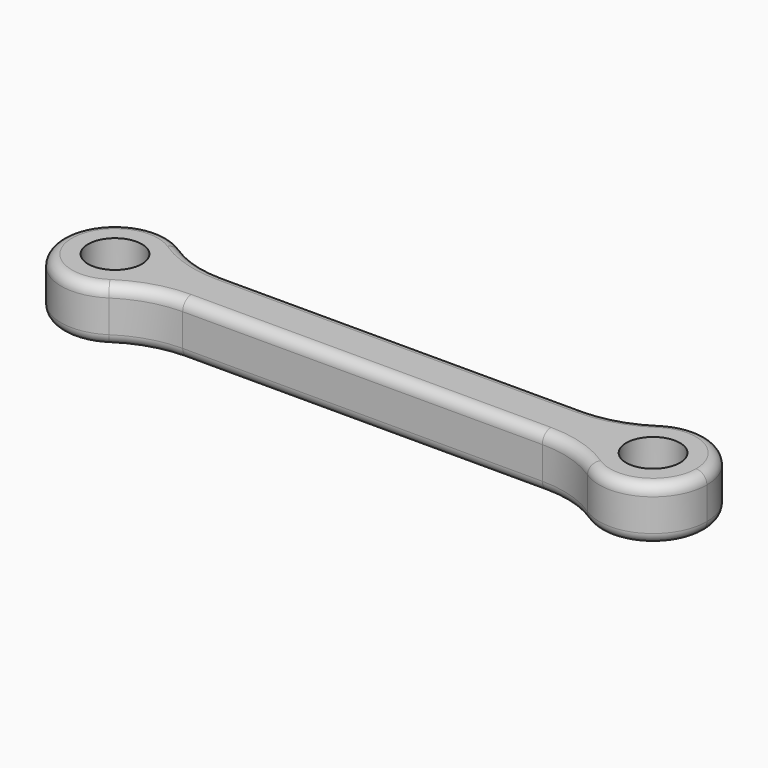
from build123d import *

# Parameters (mm, degrees)
F0_R     = 2.5
F1_DEPTH = 5
F2_R     = 10
F3_R     = 1


with BuildPart() as f1:
    # F0 (on Top) → F1 (new body)
    with BuildSketch(Plane.XY):
        with BuildLine():
            ThreePointArc((-2.3070607836, 0), (-2.4774316521, 1.2940952255), (-2.9769337647, 2.5))
            ThreePointArc((-2.9769337647, 2.5), (-12.3070607836, 0), (-2.9769337647, -2.5))
            ThreePointArc((-2.9769337647, -2.5), (-2.4774316521, -1.2940952255), (-2.3070607836, 0))
        make_face()
        with Locations((-7.3070607836, 0)):
            Circle(F0_R, mode=Mode.SUBTRACT)
        with BuildLine():
            ThreePointArc((38.3628121975, -2.5), (37.6929392164, 0), (38.3628121975, 2.5))
            Line((38.3628121975, 2.5), (-2.9769337647, 2.5))
            ThreePointArc((-2.9769337647, 2.5), (-2.4774316521, 1.2940952255), (-2.3070607836, 0))
            ThreePointArc((-2.3070607836, 0), (-2.4774316521, -1.2940952255), (-2.9769337647, -2.5))
            Line((-2.9769337647, -2.5), (38.3628121975, -2.5))
        make_face()
        with BuildLine():
            ThreePointArc((38.3628121975, -2.5), (43.9870344419, -4.8296291314), (47.6929392164, 0))
            ThreePointArc((47.6929392164, 0), (43.9870344419, 4.8296291314), (38.3628121975, 2.5))
            ThreePointArc((38.3628121975, 2.5), (37.6929392164, 0), (38.3628121975, -2.5))
        make_face()
        with Locations((42.6929392164, 0)):
            Circle(F0_R, mode=Mode.SUBTRACT)
    extrude(amount=F1_DEPTH)

    # F2
    f2_edges = [f1.edges().sort_by_distance(p)[0] for p in [
        (-2.976934, 2.5, 2.5),
        (-2.976934, -2.5, 2.5),
        (38.362812, -2.5, 2.5),
        (38.362812, 2.5, 2.5),
    ]]
    fillet(f2_edges, radius=F2_R)

    # F3
    f3_edges = [f1.edges().sort_by_distance(p)[0] for p in [
        (17.692939, 2.5, 5),
        (-1.90225, 2.925729, 5),
        (17.692939, 2.5, 0),
    ]]
    fillet(f3_edges, radius=F3_R)


solid = f1.part
